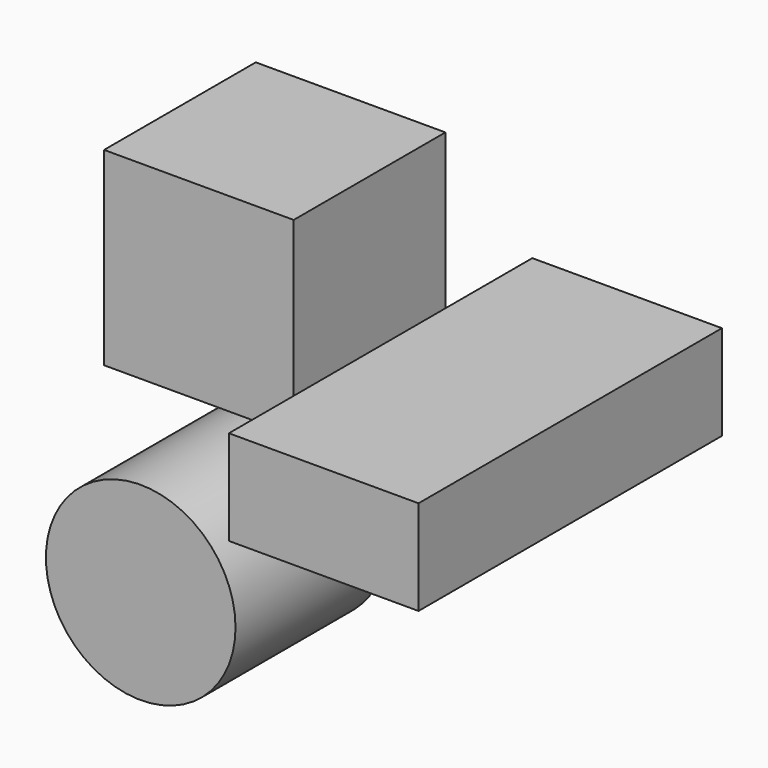
from build123d import *

# Parameters (mm, degrees)
F0_W      = 50.8
F0_H      = 50.8
F3_DEPTH  = 50.8
F1_W      = 50.8
F1_H      = 25.4
F4_DEPTH  = 50.8
F4_FACE_W = 50.8
F4_FACE_H = 25.4
F2_R      = 25.4
F5_DEPTH  = 50.8


with BuildPart() as f3:
    # F0 (on Front) → F3 (new body)
    with BuildSketch(Plane.XZ):
        with Locations((-36.51619, 42.530892)):
            Rectangle(F0_W, F0_H)
    extrude(amount=F3_DEPTH)


with BuildPart() as f4:
    # F1 (on Front) → F4 (new body)
    with BuildSketch(Plane.XZ):
        with Locations((37.573572, 33.14368)):
            Rectangle(F1_W, F1_H)
    extrude(amount=F4_DEPTH)

    # F4_face (on face) + F2 (on Front) → F5 (join)
    with BuildSketch(Plane(origin=(37.573572, -50.8, 33.14368), x_dir=(1, 0, 0), z_dir=(0, -1, 0))):
        Rectangle(F4_FACE_W, F4_FACE_H)
        Rectangle(F4_FACE_W, F4_FACE_H)
    with BuildSketch(Plane.XZ):
        with Locations((-52.099537, -33.259969)):
            Circle(F2_R)
    extrude(amount=F5_DEPTH)


solid = Compound([f3.part, f4.part])
